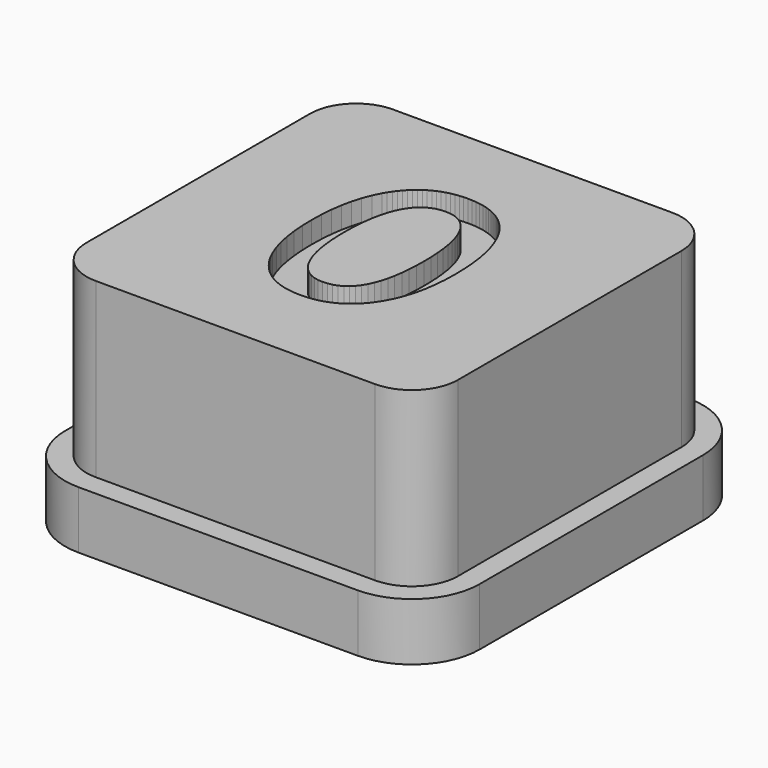
from build123d import *

# Parameters (mm, degrees)
F1_DEPTH = 2
F2_DEPTH = 8
F3_DEPTH = 7.25


with BuildPart() as f1:
    # F0 (on Top) → F1 (new body)
    with BuildSketch(Plane.XY):
        with BuildLine():
            Line((4.85, 7.2), (-4.85, 7.2))
            ThreePointArc((-4.85, 7.2), (-6.5117009358, 6.5117009358), (-7.2, 4.85))
            Line((-7.2, 4.85), (-7.2, -4.85))
            ThreePointArc((-7.2, -4.85), (-6.5117009358, -6.5117009358), (-4.85, -7.2))
            Line((-4.85, -7.2), (4.85, -7.2))
            ThreePointArc((4.85, -7.2), (6.5117009358, -6.5117009358), (7.2, -4.85))
            Line((7.2, -4.85), (7.2, 4.85))
            ThreePointArc((7.2, 4.85), (6.5117009358, 6.5117009358), (4.85, 7.2))
        make_face()
        with BuildLine():
            ThreePointArc((6.45, -4.85), (5.9813708499, -5.9813708499), (4.85, -6.45))
            Line((4.85, -6.45), (-4.85, -6.45))
            ThreePointArc((-4.85, -6.45), (-5.9813708499, -5.9813708499), (-6.45, -4.85))
            Line((-6.45, -4.85), (-6.45, 4.85))
            ThreePointArc((-6.45, 4.85), (-5.9813708499, 5.9813708499), (-4.85, 6.45))
            Line((-4.85, 6.45), (4.85, 6.45))
            ThreePointArc((4.85, 6.45), (5.9813708499, 5.9813708499), (6.45, 4.85))
            Line((6.45, 4.85), (6.45, -4.85))
        make_face(mode=Mode.SUBTRACT)
    extrude(amount=F1_DEPTH)

    # F0 (on Top) → F2 (join)
    with BuildSketch(Plane.XY):
        with BuildLine():
            Line((-4.85, -6.45), (4.85, -6.45))
            ThreePointArc((4.85, -6.45), (5.9813708499, -5.9813708499), (6.45, -4.85))
            Line((6.45, -4.85), (6.45, 4.85))
            ThreePointArc((6.45, 4.85), (5.9813708499, 5.9813708499), (4.85, 6.45))
            Line((4.85, 6.45), (-4.85, 6.45))
            ThreePointArc((-4.85, 6.45), (-5.9813708499, 5.9813708499), (-6.45, 4.85))
            Line((-6.45, 4.85), (-6.45, -4.85))
            ThreePointArc((-6.45, -4.85), (-5.9813708499, -5.9813708499), (-4.85, -6.45))
        make_face()
        Polygon((2.507258, 0.361259), (2.517418, -0.071721), (2.506921, -0.477582), (2.475431, -0.860805), (2.422948, -1.221392), (2.349471, -1.559341), (2.255, -1.874653), (2.139536, -2.167328), (2.003079, -2.437367), (1.845628, -2.684768), (1.759684, -2.79912), (1.669799, -2.906095), (1.575973, -3.005693), (1.478206, -3.097912), (1.376498, -3.182755), (1.270849, -3.260219), (1.16126, -3.330306), (1.047729, -3.393016), (0.930257, -3.448348), (0.808845, -3.496302), (0.683491, -3.536879), (0.554197, -3.570078), (0.420961, -3.595899), (0.283785, -3.614343), (0.142668, -3.62541), (-0.002391, -3.629098), (-0.149149, -3.625372), (-0.291779, -3.614194), (-0.430281, -3.595563), (-0.564656, -3.56948), (-0.694903, -3.535945), (-0.821022, -3.494957), (-0.943014, -3.446517), (-1.060878, -3.390625), (-1.174614, -3.327281), (-1.284222, -3.256484), (-1.389703, -3.178235), (-1.491056, -3.092533), (-1.588282, -2.99938), (-1.681379, -2.898774), (-1.770349, -2.790715), (-1.855191, -2.675205), (-1.935383, -2.552952), (-2.010401, -2.424666), (-2.144915, -2.149996), (-2.258736, -1.851194), (-2.351861, -1.528262), (-2.424292, -1.181198), (-2.476029, -0.810003), (-2.507071, -0.414676), (-2.517418, 0.004781), (-2.506959, 0.420914), (-2.475581, 0.813439), (-2.423284, 1.182356), (-2.350068, 1.527664), (-2.255934, 1.849364), (-2.140881, 2.147456), (-2.004909, 2.421939), (-1.929079, 2.550328), (-1.848019, 2.672814), (-1.762308, 2.788614), (-1.672526, 2.896943), (-1.578672, 2.997801), (-1.480746, 3.091189), (-1.378749, 3.177105), (-1.27268, 3.25555), (-1.162539, 3.326524), (-1.048327, 3.390027), (-0.930042, 3.44606), (-0.807687, 3.494621), (-0.681259, 3.535711), (-0.55076, 3.569331), (-0.416189, 3.595479), (-0.277547, 3.614156), (-0.134832, 3.625363), (0.011954, 3.629098), (0.160402, 3.625354), (0.304517, 3.614119), (0.444299, 3.595395), (0.579747, 3.569181), (0.710863, 3.535478), (0.837645, 3.494285), (0.960094, 3.445602), (1.07821, 3.38943), (1.191993, 3.325768), (1.301443, 3.254616), (1.40656, 3.175975), (1.507343, 3.089844), (1.603793, 2.996223), (1.69591, 2.895113), (1.783694, 2.786513), (1.867145, 2.670423), (1.945889, 2.547367), (2.019553, 2.417867), (2.151639, 2.139536), (2.263405, 1.835431), (2.35485, 1.50555), (2.425973, 1.149894), (2.476776, 0.768464), align=None, mode=Mode.SUBTRACT)
    extrude(amount=F2_DEPTH)



with BuildPart() as f2:
    # F0 (on Top) → F2, piece 2 (new body)
    with BuildSketch(Plane.XY):
        Polygon((-0.180536, -2.638224), (-0.021516, -2.648907), (0.147589, -2.638485), (0.305862, -2.607219), (0.453301, -2.555109), (0.589908, -2.482155), (0.715682, -2.388357), (0.830622, -2.273715), (0.93473, -2.138229), (1.028005, -1.981899), (1.110373, -1.8048), (1.181758, -1.607006), (1.242161, -1.388517), (1.291581, -1.149334), (1.330019, -0.889456), (1.357475, -0.608884), (1.373949, -0.307617), (1.37944, 0.014344), (1.374023, 0.32749), (1.357774, 0.621435), (1.330692, 0.89618), (1.292777, 1.151725), (1.244029, 1.388069), (1.184448, 1.605213), (1.114034, 1.803156), (1.032787, 1.981899), (0.941155, 2.14047), (0.839588, 2.277899), (0.728083, 2.394184), (0.606643, 2.489327), (0.475266, 2.563327), (0.333952, 2.616184), (0.182703, 2.647899), (0.021516, 2.65847), (-0.146506, 2.647936), (-0.303919, 2.616334), (-0.450724, 2.563663), (-0.586919, 2.489925), (-0.712506, 2.395118), (-0.827485, 2.279244), (-0.931854, 2.142301), (-1.025615, 1.98429), (-1.108543, 1.805733), (-1.180413, 1.607155), (-1.241227, 1.388554), (-1.290984, 1.149932), (-1.329683, 0.891287), (-1.357326, 0.61262), (-1.373911, 0.31393), (-1.37944, -0.004781), (-1.373949, -0.314677), (-1.357475, -0.606045), (-1.330019, -0.878885), (-1.291581, -1.133197), (-1.242161, -1.368981), (-1.181758, -1.586236), (-1.110373, -1.784964), (-1.028005, -1.965164), (-0.935403, -2.125416), (-0.833312, -2.264302), (-0.721733, -2.38182), (-0.600666, -2.477971), (-0.470111, -2.552756), (-0.330067, -2.606173), align=None)
    extrude(amount=F2_DEPTH)


with BuildPart() as f1_1:
    add(f1.part)

    add(f2.part)  # F3 merges F2
    # F0 (on Top) → F3 (join)
    with BuildSketch(Plane.XY):
        Polygon((2.506921, -0.477582), (2.517418, -0.071721), (2.507258, 0.361259), (2.476776, 0.768464), (2.425973, 1.149894), (2.35485, 1.50555), (2.263405, 1.835431), (2.151639, 2.139536), (2.019553, 2.417867), (1.945889, 2.547367), (1.867145, 2.670423), (1.783694, 2.786513), (1.69591, 2.895113), (1.603793, 2.996223), (1.507343, 3.089844), (1.40656, 3.175975), (1.301443, 3.254616), (1.191993, 3.325768), (1.07821, 3.38943), (0.960094, 3.445602), (0.837645, 3.494285), (0.710863, 3.535478), (0.579747, 3.569181), (0.444299, 3.595395), (0.304517, 3.614119), (0.160402, 3.625354), (0.011954, 3.629098), (-0.134832, 3.625363), (-0.277547, 3.614156), (-0.416189, 3.595479), (-0.55076, 3.569331), (-0.681259, 3.535711), (-0.807687, 3.494621), (-0.930042, 3.44606), (-1.048327, 3.390027), (-1.162539, 3.326524), (-1.27268, 3.25555), (-1.378749, 3.177105), (-1.480746, 3.091189), (-1.578672, 2.997801), (-1.672526, 2.896943), (-1.762308, 2.788614), (-1.848019, 2.672814), (-1.929079, 2.550328), (-2.004909, 2.421939), (-2.140881, 2.147456), (-2.255934, 1.849364), (-2.350068, 1.527664), (-2.423284, 1.182356), (-2.475581, 0.813439), (-2.506959, 0.420914), (-2.517418, 0.004781), (-2.507071, -0.414676), (-2.476029, -0.810003), (-2.424292, -1.181198), (-2.351861, -1.528262), (-2.258736, -1.851194), (-2.144915, -2.149996), (-2.010401, -2.424666), (-1.935383, -2.552952), (-1.855191, -2.675205), (-1.770349, -2.790715), (-1.681379, -2.898774), (-1.588282, -2.99938), (-1.491056, -3.092533), (-1.389703, -3.178235), (-1.284222, -3.256484), (-1.174614, -3.327281), (-1.060878, -3.390625), (-0.943014, -3.446517), (-0.821022, -3.494957), (-0.694903, -3.535945), (-0.564656, -3.56948), (-0.430281, -3.595563), (-0.291779, -3.614194), (-0.149149, -3.625372), (-0.002391, -3.629098), (0.142668, -3.62541), (0.283785, -3.614343), (0.420961, -3.595899), (0.554197, -3.570078), (0.683491, -3.536879), (0.808845, -3.496302), (0.930257, -3.448348), (1.047729, -3.393016), (1.16126, -3.330306), (1.270849, -3.260219), (1.376498, -3.182755), (1.478206, -3.097912), (1.575973, -3.005693), (1.669799, -2.906095), (1.759684, -2.79912), (1.845628, -2.684768), (2.003079, -2.437367), (2.139536, -2.167328), (2.255, -1.874653), (2.349471, -1.559341), (2.422948, -1.221392), (2.475431, -0.860805), align=None)
        Polygon((0.147589, -2.638485), (-0.021516, -2.648907), (-0.180536, -2.638224), (-0.330067, -2.606173), (-0.470111, -2.552756), (-0.600666, -2.477971), (-0.721733, -2.38182), (-0.833312, -2.264302), (-0.935403, -2.125416), (-1.028005, -1.965164), (-1.110373, -1.784964), (-1.181758, -1.586236), (-1.242161, -1.368981), (-1.291581, -1.133197), (-1.330019, -0.878885), (-1.357475, -0.606045), (-1.373949, -0.314677), (-1.37944, -0.004781), (-1.373911, 0.31393), (-1.357326, 0.61262), (-1.329683, 0.891287), (-1.290984, 1.149932), (-1.241227, 1.388554), (-1.180413, 1.607155), (-1.108543, 1.805733), (-1.025615, 1.98429), (-0.931854, 2.142301), (-0.827485, 2.279244), (-0.712506, 2.395118), (-0.586919, 2.489925), (-0.450724, 2.563663), (-0.303919, 2.616334), (-0.146506, 2.647936), (0.021516, 2.65847), (0.182703, 2.647899), (0.333952, 2.616184), (0.475266, 2.563327), (0.606643, 2.489327), (0.728083, 2.394184), (0.839588, 2.277899), (0.941155, 2.14047), (1.032787, 1.981899), (1.114034, 1.803156), (1.184448, 1.605213), (1.244029, 1.388069), (1.292777, 1.151725), (1.330692, 0.89618), (1.357774, 0.621435), (1.374023, 0.32749), (1.37944, 0.014344), (1.373949, -0.307617), (1.357475, -0.608884), (1.330019, -0.889456), (1.291581, -1.149334), (1.242161, -1.388517), (1.181758, -1.607006), (1.110373, -1.8048), (1.028005, -1.981899), (0.93473, -2.138229), (0.830622, -2.273715), (0.715682, -2.388357), (0.589908, -2.482155), (0.453301, -2.555109), (0.305862, -2.607219), align=None, mode=Mode.SUBTRACT)
    extrude(amount=F3_DEPTH)


solid = f1_1.part
